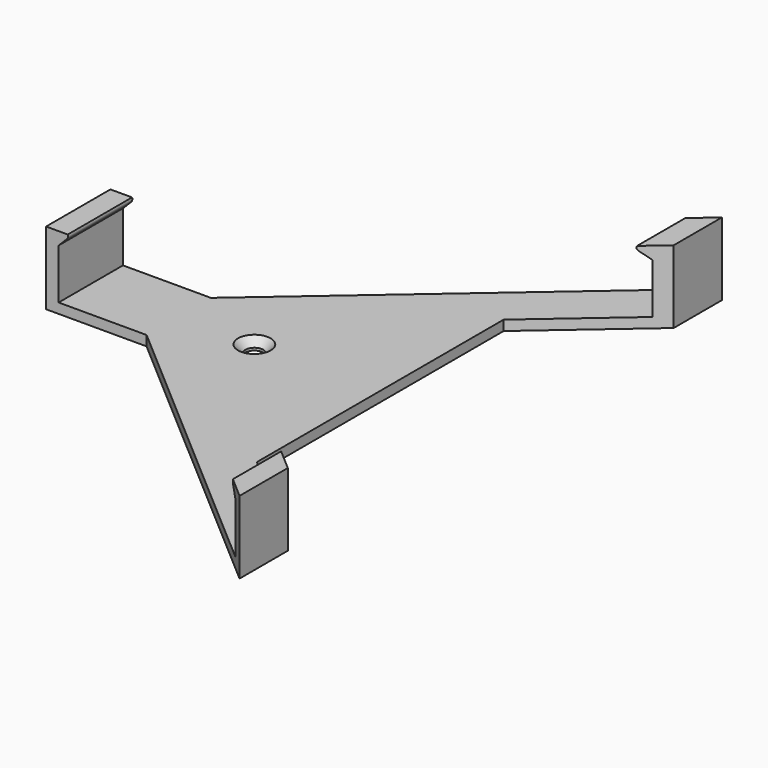
from build123d import *

# Parameters (mm, degrees)
F1_DEPTH       = 60
F2_R           = 0.8
F4_DEPTH       = 12.5
F6_D           = 3.5
F6_CSINK_D     = 6.5
F6_CSINK_ANGLE = 90


with BuildPart() as f1:
    # F0 (on Front) → F1 (new body, symmetric)
    with BuildSketch(Plane.XZ):
        Polygon((37.55, 0), (0, 0), (-37.55, 0), (-37.55, 10), (-34.55, 13), (-40.05, 13), (-40.05, -2), (0, -2), (40.05, -2), (40.05, 13), (34.55, 13), (37.55, 10), align=None)
    extrude(amount=F1_DEPTH, both=True)

    # F2
    f2_edges = [f1.edges().sort_by_distance(p)[0] for p in [
        (-34.55, 0, 13),
        (34.55, 0, 13),
    ]]
    fillet(f2_edges, radius=F2_R)

    # F3 (on face) → F4 (intersect, symmetric)
    with BuildSketch(Plane.XY):
        Polygon((-20.05, -8), (40.05, -60), (40.05, -48), (20.05, -30.695507), (20.05, 0), (20.05, 30.695507), (40.05, 48), (40.05, 60), (-20.05, 8), (-40.05, 8), (-40.05, 0), (-40.05, -8), align=None)
    extrude(amount=F4_DEPTH, both=True, mode=Mode.INTERSECT)

    # F6 (through all)
    with Locations(Plane.XY):
        with Locations((-5, 0)):
            CounterSinkHole(F6_D / 2, F6_CSINK_D / 2, counter_sink_angle=F6_CSINK_ANGLE)


solid = f1.part
